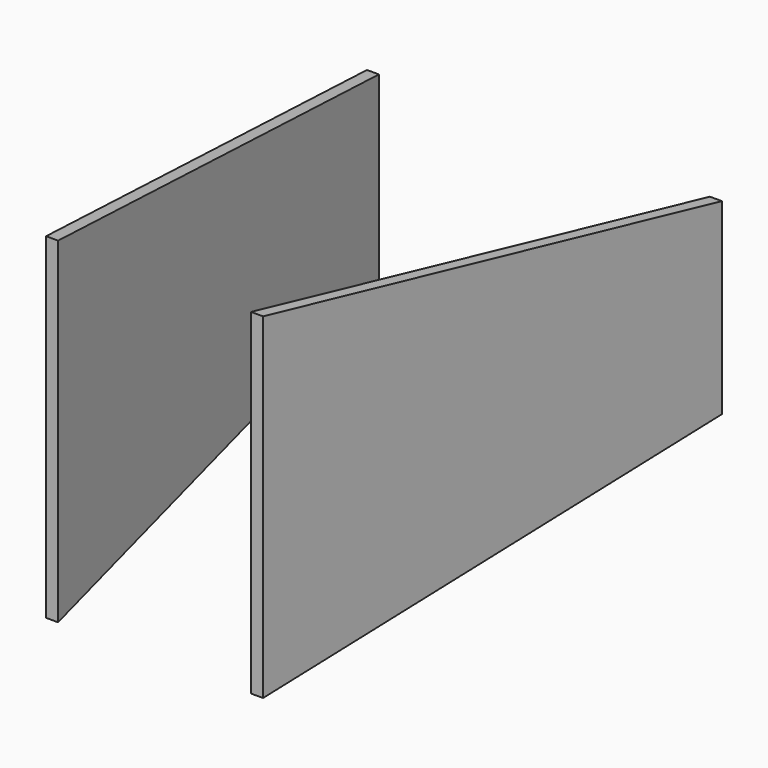
from build123d import *

# Parameters (mm, degrees)
F1_DEPTH = 127
F3_DEPTH = 50.8


with BuildPart() as f1:
    # F0 (on Right) → F1 (new body, symmetric)
    with BuildSketch(Plane.YZ):
        Polygon((155.7787731835, 25.0944288613), (25.4, 44.9478426982), (25.4, -44.9478426982), (155.7787731835, -25.0944288613), align=None)
    extrude(amount=F1_DEPTH, both=True)

    # F2 (on Top) → F3 (intersect, symmetric)
    with BuildSketch(Plane.XY):
        Polygon((-63.4683431669, 291.338), (-66.675, 291.338), (-25.4316568331, 0), (-22.225, 0), align=None)
        Polygon((66.675, 291.338), (63.4683431669, 291.338), (22.225, 0), (25.4316568331, 0), align=None)
    extrude(amount=F3_DEPTH, both=True, mode=Mode.INTERSECT)


solid = f1.part
